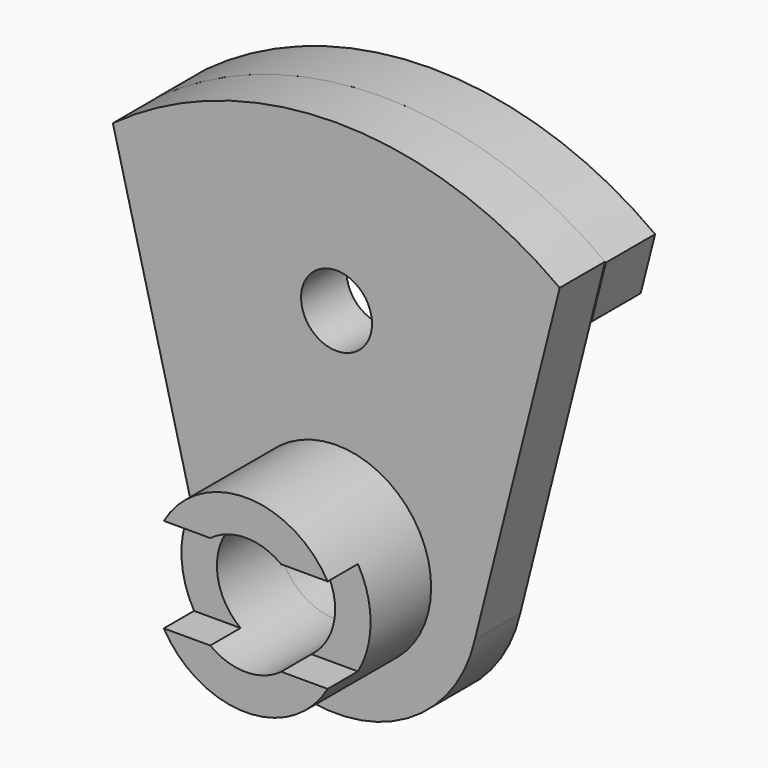
from build123d import *

# Parameters (mm, degrees)
SKETCH_R     = 7.5
PAD_DEPTH    = 12
SKETCH005_R  = 12.5
POCKET_DEPTH = 12.001
PAD001_DEPTH = 13
SKETCH004_W  = 40
SKETCH004_H  = 20
PAD004_DEPTH = 8
SKETCH003_R  = 12.5
PAD003_DEPTH = 36
SKETCH002_R  = 20
PAD002_DEPTH = 24


with BuildPart() as body:
    # Sketch → Pad (new body)
    with BuildSketch(Plane.XZ):
        with BuildLine():
            ThreePointArc((-29.23775, 23.280331), (0, 0), (29.23775, 23.280331))
            Line((29.23775, 23.280331), (47.182434, 94.605092))
            ThreePointArc((47.182434, 94.605092), (-0.06739, 109.999972), (-47.29121, 94.52551))
            Line((-29.23775, 23.280331), (-47.29121, 94.52551))
        make_face()
        with Locations((0, 75)):
            Circle(SKETCH_R, mode=Mode.SUBTRACT)
    extrude(amount=PAD_DEPTH)

    # Sketch005 (on Face7 of Pad) → Pocket (cut, through all)
    with BuildSketch(Plane.XZ.offset(12)):
        with Locations((0, 30)):
            Circle(SKETCH005_R)
    extrude(amount=-POCKET_DEPTH, mode=Mode.SUBTRACT)


with BuildPart() as body001:
    # Sketch001 → Pad001 (new body)
    with BuildSketch(Plane.XZ):
        with BuildLine():
            ThreePointArc((47.354468, 94.4791), (-0.203921, 109.99974), (-47.682568, 94.236849))
            Line((-44.563223, 82.236849), (-47.682568, 94.236849))
            ThreePointArc((44.301036, 82.4791), (-0.167824, 95.831455), (-44.563223, 82.236849))
            Line((44.301036, 82.4791), (47.354468, 94.4791))
        make_face()
    extrude(amount=-PAD001_DEPTH)


with BuildPart() as obj1:
    # Sketch004 → Pad004 (new body)
    with BuildSketch(Plane.XZ):
        with Locations((0, 30)):
            Rectangle(SKETCH004_W, SKETCH004_H)
    extrude(amount=PAD004_DEPTH)


with BuildPart() as obj1_1:
    # Body004 placement: moved
    add(obj1.part.moved(Location((0, -28, 0))))


with BuildPart() as body003:
    # Sketch003 → Pad003 (new body)
    with BuildSketch(Plane.XZ):
        with Locations((0, 30)):
            Circle(SKETCH003_R)
    extrude(amount=PAD003_DEPTH)


with BuildPart() as cut001:
    # Sketch002 → Pad002 (new body)
    with BuildSketch(Plane.XZ):
        with Locations((0, 30)):
            Circle(SKETCH002_R)
    extrude(amount=PAD002_DEPTH)


with BuildPart() as cut001_1:
    # Body002 placement: moved
    add(cut001.part.moved(Location((0, -12, 0))))

    # Cut: cut Body003
    add(body003.part, mode=Mode.SUBTRACT)

    # Cut001: cut obj1
    add(obj1_1.part, mode=Mode.SUBTRACT)


solid = Compound([body.part, body001.part, cut001_1.part])
